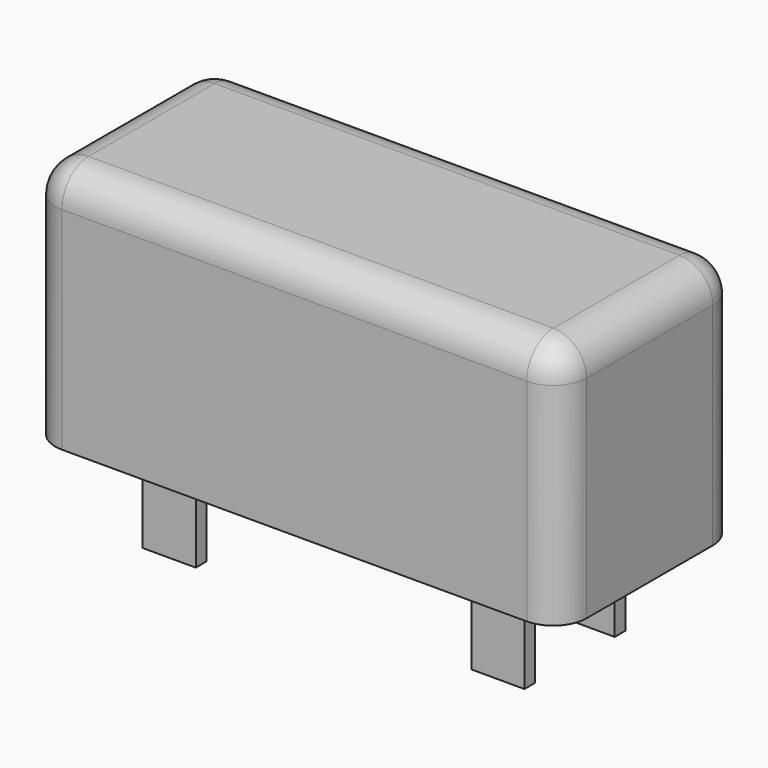
from build123d import *

# Parameters (mm, degrees)
SKETCH_W     = 16
SKETCH_H     = 6.75
PAD_DEPTH    = 7.37
SKETCH001_W  = 1.6
SKETCH001_H  = 0.4
PAD001_DEPTH = 2.8
FILLET_R     = 1


with BuildPart() as part:
    # Sketch → Pad (new body)
    with BuildSketch(Plane.XY):
        with Locations((8, 3.375)):
            Rectangle(SKETCH_W, SKETCH_H)
    extrude(amount=PAD_DEPTH)

    # Sketch001 → Pad001 (join)
    with BuildSketch(Plane.XY):
        with Locations((3.05, 5.075)):
            Rectangle(SKETCH001_W, SKETCH001_H)
        with Locations((12.95, 5.075)):
            Rectangle(SKETCH001_W, SKETCH001_H)
        with Locations((12.95, 1.675)):
            Rectangle(SKETCH001_W, SKETCH001_H)
        with Locations((3.05, 1.675)):
            Rectangle(SKETCH001_W, SKETCH001_H)
    extrude(amount=-PAD001_DEPTH)

    # Fillet
    fillet_edges = [part.edges().sort_by_distance(p)[0] for p in [
        (0, 0, 3.685),
        (8, 0, 7.37),
        (16, 3.375, 7.37),
        (8, 6.75, 7.37),
        (0, 3.375, 7.37),
        (16, 0, 3.685),
        (16, 6.75, 3.685),
        (0, 6.75, 3.685),
    ]]
    fillet(fillet_edges, radius=FILLET_R)


solid = part.part
